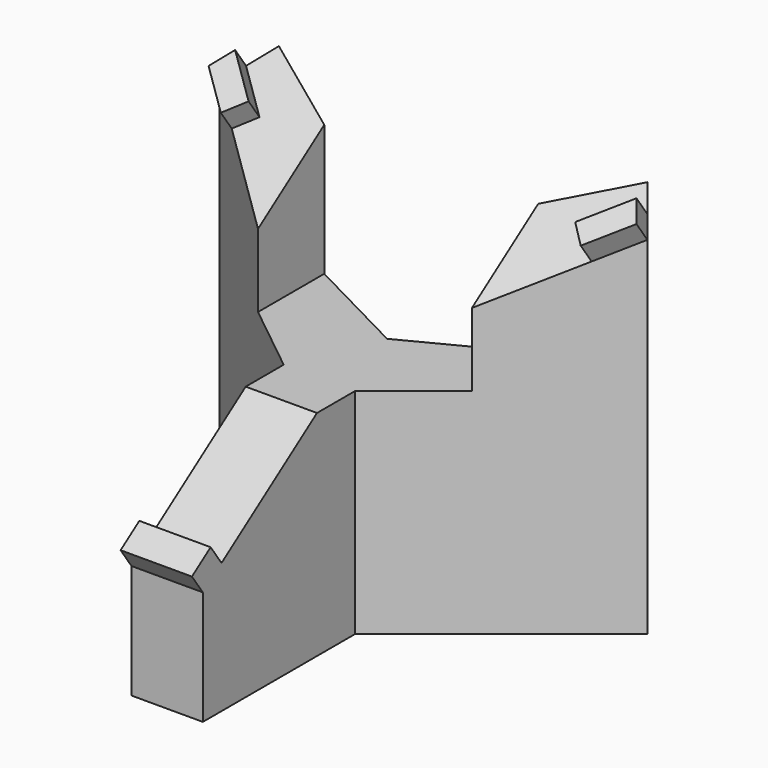
from build123d import *

# Parameters (mm, degrees)
F1_DEPTH      = 80
F3_DEPTH      = 37.501
F3_DEPTH_BACK = 52.501
F4_W          = 15
F4_H          = 6
F5_DEPTH      = 5
F7_DEPTH      = 30
F7_DEPTH_BACK = 15


with BuildPart() as f1:
    # F0 (on Top) → F1 (new body)
    with BuildSketch(Plane.XY):
        Polygon((-38.7530495245, 32.8086880944), (-45, 25), (-7.5, -5), (-7.5, -45), (7.5, -45), (7.5, -5), (45, 25), (38.7530495245, 32.8086880944), (0, 12.8086880944), align=None)
    extrude(amount=F1_DEPTH)

    # F2 (on face) → F3 (cut, two sides)
    with BuildSketch(Plane(origin=(-7.5, 0, 0), x_dir=(0, -1, 0), z_dir=(-1, 0, 0))) as f3_sk:
        Polygon((45, 23.9833969432), (45, 80), (-35, 80), align=None)
    extrude(amount=F3_DEPTH, mode=Mode.SUBTRACT)
    extrude(f3_sk.sketch, amount=-F3_DEPTH_BACK, mode=Mode.SUBTRACT)

    # F4 (on face) → F5 (join)
    with BuildSketch(Plane(origin=(0, -26.0730573396, 37.2361848693), x_dir=(1, 0, 0), z_dir=(0, -0.5735764364, 0.8191520443))):
        Polygon((-42.207332973, 66.6102117473), (-45, 62.3486905706), (-37.8457929426, 55.3617512278), (-34.3523232712, 58.9388547565), align=None)
        Polygon((37.8457929426, 55.3617512278), (45, 62.3486905706), (42.207332973, 66.6102117473), (34.3523232712, 58.9388547565), align=None)
        with Locations((0, -20.1055306427)):
            Rectangle(F4_W, F4_H)
    extrude(amount=F5_DEPTH)

    # F6 (on face) → F7 (cut, two sides)
    with BuildSketch(Plane(origin=(-7.5, 0, 0), x_dir=(0, -1, 0), z_dir=(-1, 0, 0))) as f7_sk:
        Polygon((-25.014819764, 45), (14.985180236, 45), (-25.014819764, 73.0083015284), align=None)
    extrude(amount=-F7_DEPTH, mode=Mode.SUBTRACT)
    extrude(f7_sk.sketch, amount=F7_DEPTH_BACK, mode=Mode.SUBTRACT)


solid = f1.part
